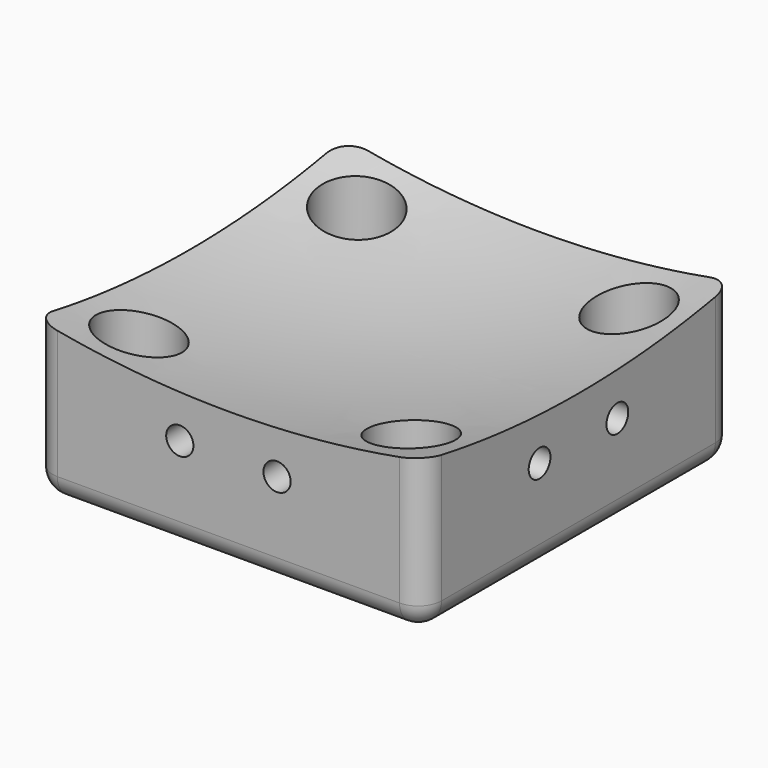
from build123d import *

# Parameters (mm, degrees)
F0_W      = 50
F0_H      = 50
F1_DEPTH  = 30
F4_R      = 1.75
F5_DEPTH  = 50.001
F6_R      = 1.75
F7_DEPTH  = 50.001
F8_R      = 1.75
F9_DEPTH  = 20.105212
F11_R     = 5
F12_DEPTH = 20
F13_R     = 3


with BuildPart() as f1:
    # F0 (on Top) → F1 (new body)
    with BuildSketch(Plane.XY):
        Rectangle(F0_W, F0_H)
    extrude(amount=F1_DEPTH)

    # F2 (on Front) → F3 (revolve, cut)
    with BuildSketch(Plane.XZ):
        with BuildLine():
            Line((0, 265), (0, 15))
            ThreePointArc((0, 15), (125, 140), (0, 265))
        make_face()
    revolve(axis=Axis((0, 0, 140), (0, 0, 1)), mode=Mode.SUBTRACT)

    # F4 (on face) → F5 (cut, through all)
    with BuildSketch(Plane(origin=(-25, 0, 0), x_dir=(0, -1, 0), z_dir=(-1, 0, 0))):
        with Locations((-6.25, 12.17)):
            Circle(F4_R)
        with Locations((6.25, 12.17)):
            Circle(F4_R)
    extrude(amount=-F5_DEPTH, mode=Mode.SUBTRACT)

    # F6 (on face) → F7 (cut, through all)
    with BuildSketch(Plane.XZ.offset(25)):
        with Locations((-6.25, 12.17)):
            Circle(F6_R)
        with Locations((6.25, 12.17)):
            Circle(F6_R)
    extrude(amount=-F7_DEPTH, mode=Mode.SUBTRACT)

    # F8 (on Top) → F9 (cut, through all)
    with BuildSketch(Plane.XY):
        with Locations((17.5, 17.5)):
            Circle(F8_R)
        with Locations((17.5, -17.5)):
            Circle(F8_R)
        with Locations((-17.5, 17.5)):
            Circle(F8_R)
        with Locations((-17.5, -17.5)):
            Circle(F8_R)
    extrude(amount=F9_DEPTH, mode=Mode.SUBTRACT)

    # F11 (on offset) → F12 (cut)
    with BuildSketch(Plane.XY.offset(30)):
        with Locations((-17.5, 17.5)):
            Circle(F11_R)
        with Locations((-17.5, -17.5)):
            Circle(F11_R)
        with Locations((17.5, 17.5)):
            Circle(F11_R)
        with Locations((17.5, -17.5)):
            Circle(F11_R)
    extrude(amount=-F12_DEPTH, mode=Mode.SUBTRACT)

    # F13
    f13_edges = [f1.edges().sort_by_distance(p)[0] for p in [
        (-25, 0, 0),
        (0, -25, 0),
        (25, 0, 0),
        (0, 25, 0),
        (25, -25, 10.052106),
        (25, 25, 10.052106),
        (-25, 25, 10.052106),
        (-25, -25, 10.052106),
    ]]
    fillet(f13_edges, radius=F13_R)


solid = f1.part
